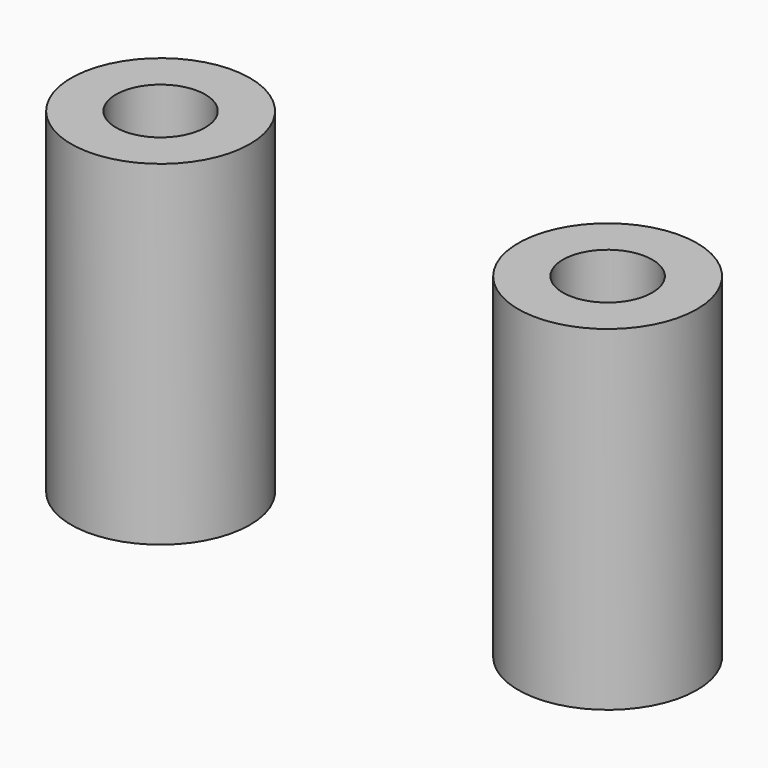
from build123d import *

# Parameters (mm, degrees)
CYLINDER004_R     = 1.2
CYLINDER004_DEPTH = 12
CYLINDER005_R     = 1.2
CYLINDER005_DEPTH = 12
CYLINDER006_R     = 2.4
CYLINDER006_DEPTH = 9
CYLINDER007_R     = 2.4
CYLINDER007_DEPTH = 9


with BuildPart() as cylinder004:
    # Cylinder004 → Cylinder004 (new body)
    with BuildSketch(Plane(origin=(-6, -6.3, 0), x_dir=(1, 0, 0), z_dir=(0, 0, 1))):
        Circle(CYLINDER004_R)
    extrude(amount=CYLINDER004_DEPTH)


with BuildPart() as fusion003:
    # Cylinder005 → Cylinder005 (new body)
    with BuildSketch(Plane(origin=(6, -6.3, 0), x_dir=(1, 0, 0), z_dir=(0, 0, 1))):
        Circle(CYLINDER005_R)
    extrude(amount=CYLINDER005_DEPTH)

    # Fusion003: union Cylinder004
    add(cylinder004.part)


with BuildPart() as cylinder006:
    # Cylinder006 → Cylinder006 (new body)
    with BuildSketch(Plane(origin=(6, -6.3, 0), x_dir=(1, 0, 0), z_dir=(0, 0, 1))):
        Circle(CYLINDER006_R)
    extrude(amount=CYLINDER006_DEPTH)


with BuildPart() as cut001:
    # Cylinder007 → Cylinder007 (new body)
    with BuildSketch(Plane(origin=(-6, -6.3, 0), x_dir=(1, 0, 0), z_dir=(0, 0, 1))):
        Circle(CYLINDER007_R)
    extrude(amount=CYLINDER007_DEPTH)

    # Fusion004: union Cylinder006
    add(cylinder006.part)

    # Cut001: cut Fusion003
    add(fusion003.part, mode=Mode.SUBTRACT)


solid = cut001.part
